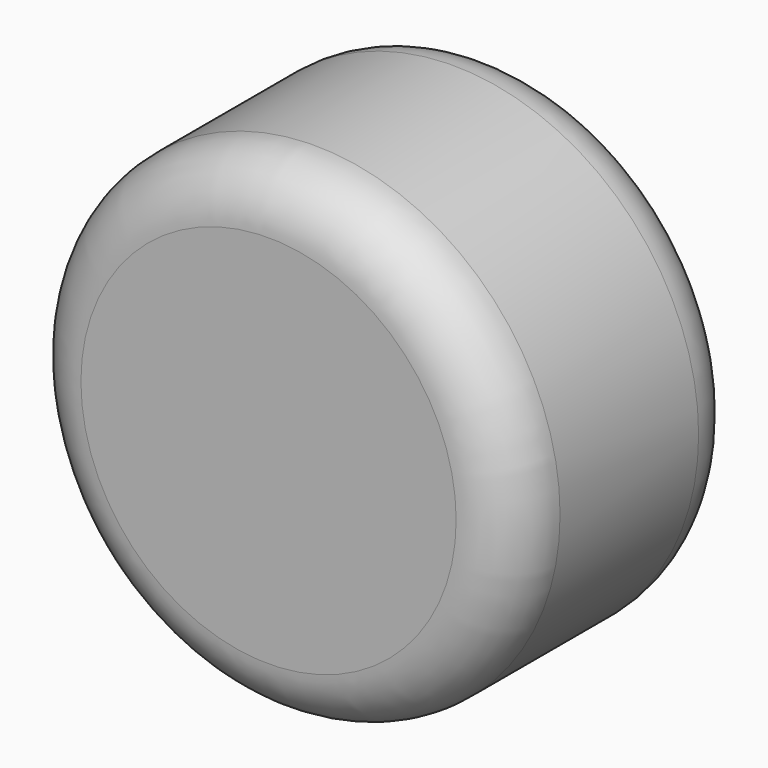
from build123d import *

# Parameters (mm, degrees)
F0_R     = 1.905
F1_DEPTH = 7.62
F2_R     = 21.59
F3_DEPTH = 25.4
F4_R     = 5.08


with BuildPart() as f1:
    # F0 (on Front) → F1 (new body)
    with BuildSketch(Plane.XZ):
        Circle(F0_R)
    extrude(amount=F1_DEPTH)

    # F2 (on face) → F3 (join)
    with BuildSketch(Plane.XZ.offset(7.62)):
        Circle(F2_R)
    extrude(amount=F3_DEPTH)

    # F4
    f4_edges = [f1.edges().sort_by_distance(p)[0] for p in [
        (-21.59, -33.02, 0),
        (-21.59, -7.62, 0),
    ]]
    fillet(f4_edges, radius=F4_R)


solid = f1.part
